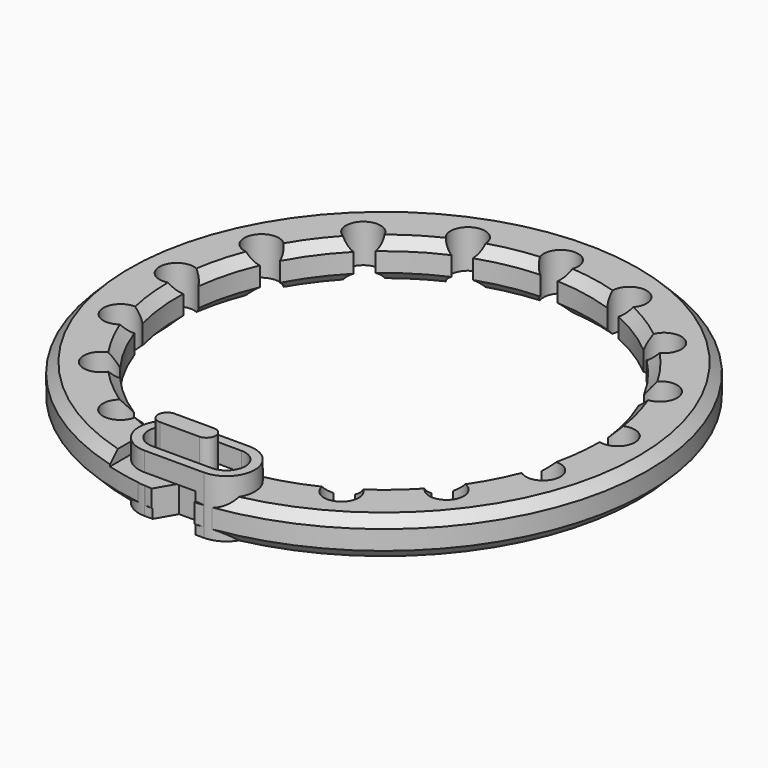
from build123d import *

# Parameters (mm, degrees)
SKETCH_R              = 27.5
SKETCH_R_2            = 21.5
PAD_DEPTH             = 4
CHAMFER_SIZE          = 1
CHAMFER001_SIZE       = 1
CHAMFER002_SIZE       = 1
CHAMFER003_SIZE       = 1
POCKET_DEPTH          = 159.77006
POLARPATTERN_COUNT    = 8
POLARPATTERN_ANGLE    = 150
POLARPATTERN001_COUNT = 8
POLARPATTERN001_ANGLE = 150
PAD001_DEPTH          = 6
POCKET001_DEPTH       = 27.501
POCKET002_DEPTH       = 3
PAD002_DEPTH          = 5
POCKET003_DEPTH       = 5


with BuildPart() as part:
    # Sketch → Pad (new body)
    with BuildSketch(Plane.XY):
        Circle(SKETCH_R)
        Circle(SKETCH_R_2, mode=Mode.SUBTRACT)
    extrude(amount=PAD_DEPTH)

    # Chamfer
    chamfer_edges = [part.edges().sort_by_distance(p)[0] for p in [
        (-27.5, 0, 4),
    ]]
    chamfer(chamfer_edges, length=CHAMFER_SIZE)

    # Chamfer001
    chamfer001_edges = [part.edges().sort_by_distance(p)[0] for p in [
        (-21.5, 0, 4),
    ]]
    chamfer(chamfer001_edges, length=CHAMFER001_SIZE)

    # Chamfer002
    chamfer002_edges = [part.edges().sort_by_distance(p)[0] for p in [
        (-21.5, 0, 0),
    ]]
    chamfer(chamfer002_edges, length=CHAMFER002_SIZE)

    # Chamfer003
    chamfer003_edges = [part.edges().sort_by_distance(p)[0] for p in [
        (-27.5, 0, 0),
    ]]
    chamfer(chamfer003_edges, length=CHAMFER003_SIZE)

    # Sketch001 → Pocket (cut, through all)
    with BuildSketch(Plane.XY):
        with BuildLine():
            Line((0, 0), (0.9, 21.481155))
            ThreePointArc((0.9, 21.481155), (0, 24.84), (-0.9, 21.481155))
            Line((-0.9, 21.481155), (0, 0))
        make_face()
    pocket = extrude(amount=POCKET_DEPTH, mode=Mode.SUBTRACT)

    # PolarPattern: Pocket ×8 about axis
    polarpattern_axis = Axis((0, 0, 0), (0, 0, 1))
    for i in range(1, POLARPATTERN_COUNT):
        add(pocket.rotate(polarpattern_axis, i * POLARPATTERN_ANGLE / (POLARPATTERN_COUNT - 1)), mode=Mode.SUBTRACT)

    # PolarPattern001: Pocket ×8 about axis
    polarpattern001_axis = Axis((0, 0, 0), (0, 0, -1))
    for i in range(1, POLARPATTERN001_COUNT):
        add(pocket.rotate(polarpattern001_axis, i * POLARPATTERN001_ANGLE / (POLARPATTERN001_COUNT - 1)), mode=Mode.SUBTRACT)

    # Sketch003 → Pad001 (join)
    with BuildSketch(Plane.XY):
        with BuildLine():
            ThreePointArc((-3.089321, -21.427598), (-6.041116, -24.379393), (-3.089321, -27.331188))
            Line((-3.089321, -27.331188), (3.089321, -27.331188))
            ThreePointArc((3.089321, -27.331188), (6.041116, -24.379393), (3.089321, -21.427598))
            Line((-3.089321, -21.427598), (3.089321, -21.427598))
        make_face()
    extrude(amount=PAD001_DEPTH)

    # Sketch002 → Pocket001 (cut, through all)
    with BuildSketch(Plane.XZ):
        Polygon((2.2, 0), (2.2, 4), (-6.16614, 4), (-6.16614, 6.8), (-7.36614, 6.8), (-7.36614, 2.8), (1, 2.8), (1, 0), align=None)
    extrude(amount=POCKET001_DEPTH, mode=Mode.SUBTRACT)

    # Sketch004 (on Face89 of Pocket001) → Pocket002 (cut)
    with BuildSketch(Plane.XY.offset(6)):
        with BuildLine():
            ThreePointArc((-3.089321, -22.427598), (-5.041116, -24.379393), (-3.089321, -26.331188))
            Line((-3.089321, -26.331188), (3.089321, -26.331188))
            ThreePointArc((3.089321, -26.331188), (5.041116, -24.379393), (3.089321, -22.427598))
            Line((-3.089321, -22.427598), (3.089321, -22.427598))
        make_face()
    extrude(amount=-POCKET002_DEPTH, mode=Mode.SUBTRACT)

    # Sketch005 (on Face100 of Pocket002) → Pad002 (join)
    with BuildSketch(Plane.XY.offset(2.8)):
        with BuildLine():
            ThreePointArc((-3.089321, -23.427598), (-4.041116, -24.379393), (-3.089321, -25.331188))
            Line((-3.089321, -25.331188), (1.010805, -25.331188))
            ThreePointArc((1.010805, -25.331188), (1.9626, -24.379393), (1.010805, -23.427598))
            Line((-3.089321, -23.427598), (1.010805, -23.427598))
        make_face()
    extrude(amount=PAD002_DEPTH)

    # Sketch006 (on Face100 of Pad002) → Pocket003 (cut)
    with BuildSketch(Plane.XY.offset(2.8)):
        Polygon((-3.031032, -20.064456), (-1.089321, -23.427598), (1.010805, -23.427598), (1.010805, -25.331188), (-1.089321, -25.331188), (-3.031032, -28.69433), (1.788048, -28.69433), (1.788048, -20.064456), align=None)
    extrude(amount=-POCKET003_DEPTH, mode=Mode.SUBTRACT)


solid = part.part
